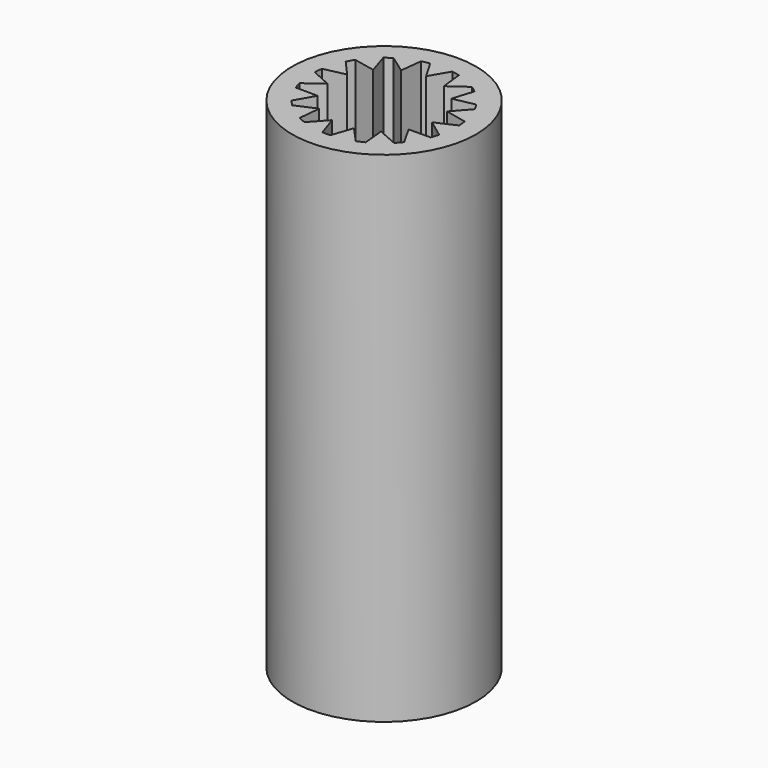
from build123d import *

# Parameters (mm, degrees)
F0_R     = 10.5
F1_DEPTH = 57


with BuildPart() as f1:
    # F0 (on Top) → F1 (new body)
    with BuildSketch(Plane.XY):
        Circle(F0_R)
        with BuildLine():
            ThreePointArc((8.240039, 0.405277), (8.247509, 0.2027), (8.25, 0))
            ThreePointArc((8.25, 0), (8.181141, -1.063689), (7.975713, -2.109622))
            ThreePointArc((7.975713, -2.109622), (7.846216, -2.54939), (7.692492, -2.981287))
            ThreePointArc((7.692492, -2.981287), (7.14471, -4.125), (6.428116, -5.17125))
            ThreePointArc((6.428116, -5.17125), (6.130945, -5.520328), (5.814842, -5.852359))
            ThreePointArc((5.814842, -5.852359), (4.849228, -6.67439), (3.769039, -7.338722))
            ThreePointArc((3.769039, -7.338722), (3.355577, -7.53675), (2.931754, -7.711506))
            ThreePointArc((2.931754, -7.711506), (1.715271, -8.069718), (0.458261, -8.237263))
            ThreePointArc((0.458261, -8.237263), (0, -8.25), (-0.458261, -8.237263))
            ThreePointArc((-0.458261, -8.237263), (-1.715271, -8.069718), (-2.931754, -7.711506))
            ThreePointArc((-2.931754, -7.711506), (-3.355577, -7.53675), (-3.769039, -7.338722))
            ThreePointArc((-3.769039, -7.338722), (-4.849228, -6.67439), (-5.814842, -5.852359))
            ThreePointArc((-5.814842, -5.852359), (-6.130945, -5.520328), (-6.428116, -5.17125))
            ThreePointArc((-6.428116, -5.17125), (-7.14471, -4.125), (-7.692492, -2.981287))
            ThreePointArc((-7.692492, -2.981287), (-7.846216, -2.54939), (-7.975713, -2.109622))
            ThreePointArc((-7.975713, -2.109622), (-8.204806, -0.86236), (-8.240039, 0.405277))
            ThreePointArc((-8.240039, 0.405277), (-8.204806, 0.86236), (-8.144237, 1.31678))
            ThreePointArc((-8.144237, 1.31678), (-7.846216, 2.54939), (-7.362809, 3.721765))
            ThreePointArc((-7.362809, 3.721765), (-7.14471, 4.125), (-6.904548, 4.515497))
            ThreePointArc((-6.904548, 4.515497), (-6.130945, 5.520328), (-5.212483, 6.394726))
            ThreePointArc((-5.212483, 6.394726), (-4.849228, 6.67439), (-4.471, 6.933445))
            ThreePointArc((-4.471, 6.933445), (-3.355577, 7.53675), (-2.160871, 7.961981))
            ThreePointArc((-2.160871, 7.961981), (-1.715271, 8.069718), (-1.264376, 8.152537))
            ThreePointArc((-1.264376, 8.152537), (0, 8.25), (1.264376, 8.152537))
            ThreePointArc((1.264376, 8.152537), (1.715271, 8.069718), (2.160871, 7.961981))
            ThreePointArc((2.160871, 7.961981), (3.355577, 7.53675), (4.471, 6.933445))
            ThreePointArc((4.471, 6.933445), (4.849228, 6.67439), (5.212483, 6.394726))
            ThreePointArc((5.212483, 6.394726), (6.130945, 5.520328), (6.904548, 4.515497))
            ThreePointArc((6.904548, 4.515497), (7.14471, 4.125), (7.362809, 3.721765))
            ThreePointArc((7.362809, 3.721765), (7.846216, 2.54939), (8.144237, 1.31678))
            ThreePointArc((8.144237, 1.31678), (8.204806, 0.86236), (8.240039, 0.405277))
        make_face(mode=Mode.SUBTRACT)
        with BuildLine():
            Line((-5.706339, 1.854102), (-7.362809, 3.721765))
            ThreePointArc((-7.362809, 3.721765), (-7.846216, 2.54939), (-8.144237, 1.31678))
            Line((-8.144237, 1.31678), (-5.706339, 1.854102))
        make_face()
        with BuildLine():
            Line((-4.458869, 4.014784), (-5.212483, 6.394726))
            ThreePointArc((-5.212483, 6.394726), (-6.130945, 5.520328), (-6.904548, 4.515497))
            Line((-6.904548, 4.515497), (-4.458869, 4.014784))
        make_face()
        with BuildLine():
            Line((-2.44042, 5.481273), (-2.160871, 7.961981))
            ThreePointArc((-2.160871, 7.961981), (-3.355577, 7.53675), (-4.471, 6.933445))
            Line((-4.471, 6.933445), (-2.44042, 5.481273))
        make_face()
        with BuildLine():
            Line((0, 6), (1.264376, 8.152537))
            ThreePointArc((1.264376, 8.152537), (0, 8.25), (-1.264376, 8.152537))
            Line((-1.264376, 8.152537), (0, 6))
        make_face()
        with BuildLine():
            Line((2.44042, 5.481273), (4.471, 6.933445))
            ThreePointArc((4.471, 6.933445), (3.355577, 7.53675), (2.160871, 7.961981))
            Line((2.160871, 7.961981), (2.44042, 5.481273))
        make_face()
        with BuildLine():
            Line((4.458869, 4.014784), (6.904548, 4.515497))
            ThreePointArc((6.904548, 4.515497), (6.130945, 5.520328), (5.212483, 6.394726))
            Line((5.212483, 6.394726), (4.458869, 4.014784))
        make_face()
        with BuildLine():
            Line((5.706339, 1.854102), (8.144237, 1.31678))
            ThreePointArc((8.144237, 1.31678), (7.846216, 2.54939), (7.362809, 3.721765))
            Line((7.362809, 3.721765), (5.706339, 1.854102))
        make_face()
        with BuildLine():
            ThreePointArc((7.975713, -2.109622), (8.181141, -1.063689), (8.25, 0))
            ThreePointArc((8.25, 0), (8.247509, 0.2027), (8.240039, 0.405277))
            Line((8.240039, 0.405277), (5.967131, -0.627171))
            Line((5.967131, -0.627171), (7.975713, -2.109622))
        make_face()
        with BuildLine():
            ThreePointArc((6.428116, -5.17125), (7.14471, -4.125), (7.692492, -2.981287))
            Line((7.692492, -2.981287), (5.196152, -3))
            Line((5.196152, -3), (6.428116, -5.17125))
        make_face()
        with BuildLine():
            ThreePointArc((3.769039, -7.338722), (4.849228, -6.67439), (5.814842, -5.852359))
            Line((5.814842, -5.852359), (3.526712, -4.854102))
            Line((3.526712, -4.854102), (3.769039, -7.338722))
        make_face()
        with BuildLine():
            ThreePointArc((0.458261, -8.237263), (1.715271, -8.069718), (2.931754, -7.711506))
            Line((2.931754, -7.711506), (1.24747, -5.868886))
            Line((1.24747, -5.868886), (0.458261, -8.237263))
        make_face()
        with BuildLine():
            ThreePointArc((-2.931754, -7.711506), (-1.715271, -8.069718), (-0.458261, -8.237263))
            Line((-0.458261, -8.237263), (-1.24747, -5.868886))
            Line((-1.24747, -5.868886), (-2.931754, -7.711506))
        make_face()
        with BuildLine():
            ThreePointArc((-5.814842, -5.852359), (-4.849228, -6.67439), (-3.769039, -7.338722))
            Line((-3.769039, -7.338722), (-3.526712, -4.854102))
            Line((-3.526712, -4.854102), (-5.814842, -5.852359))
        make_face()
        with BuildLine():
            ThreePointArc((-7.692492, -2.981287), (-7.14471, -4.125), (-6.428116, -5.17125))
            Line((-6.428116, -5.17125), (-5.196152, -3))
            Line((-5.196152, -3), (-7.692492, -2.981287))
        make_face()
        with BuildLine():
            ThreePointArc((-8.240039, 0.405277), (-8.204806, -0.86236), (-7.975713, -2.109622))
            Line((-7.975713, -2.109622), (-5.967131, -0.627171))
            Line((-5.967131, -0.627171), (-8.240039, 0.405277))
        make_face()
    extrude(amount=F1_DEPTH)


solid = f1.part
